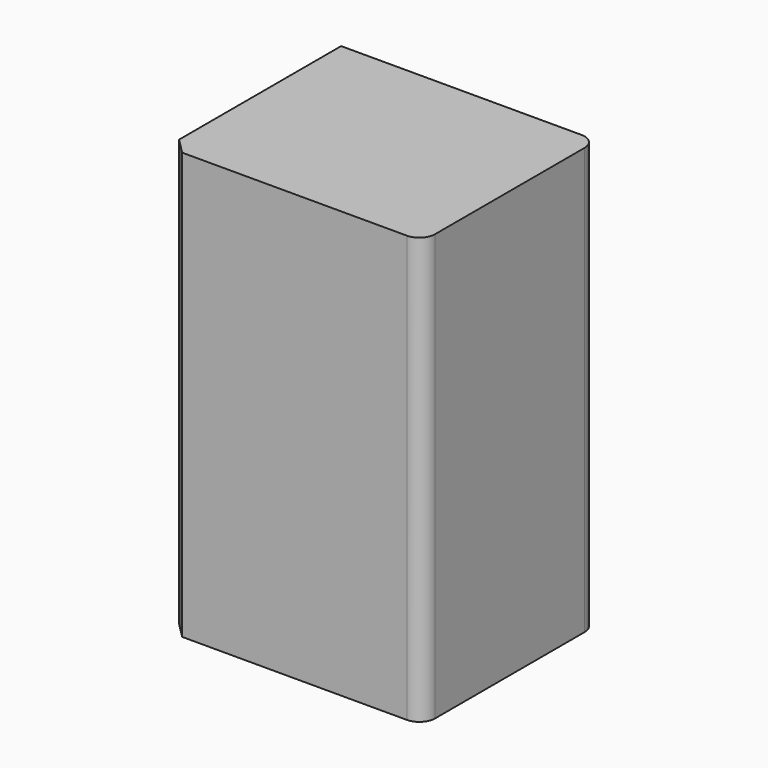
from build123d import *

# Parameters (mm, degrees)
F0_W     = 83.0075256526
F0_H     = 70.7665830851
F1_DEPTH = 25.4
F2_W     = 83.0075256526
F2_H     = 70.7665830851
F3_DEPTH = 112.8343343735
F4_R     = 5.08
F5_SIZE  = 5.08


with BuildPart() as f1:
    # F0 (on Top) → F1 (new body)
    with BuildSketch(Plane.XY):
        with Locations((1.4187190682, -7.5828060508)):
            Rectangle(F0_W, F0_H)
        with Locations((1.4187190682, -7.5828060508)):
            Rectangle(F0_W, F0_H)
    extrude(amount=F1_DEPTH)

    # F2 (on face) → F3 (join)
    with BuildSketch(Plane.XY.offset(25.4)):
        with Locations((1.4187190682, -7.5828060508)):
            Rectangle(F2_W, F2_H)
    extrude(amount=F3_DEPTH)

    # F4
    f4_edges = [f1.edges().sort_by_distance(p)[0] for p in [
        (42.922482, -42.966098, 69.117167),
        (42.922482, 27.800485, 69.117167),
    ]]
    fillet(f4_edges, radius=F4_R)

    # F5
    f5_edges = [f1.edges().sort_by_distance(p)[0] for p in [
        (-40.085044, -42.966098, 69.117167),
    ]]
    chamfer(f5_edges, length=F5_SIZE)


solid = f1.part
